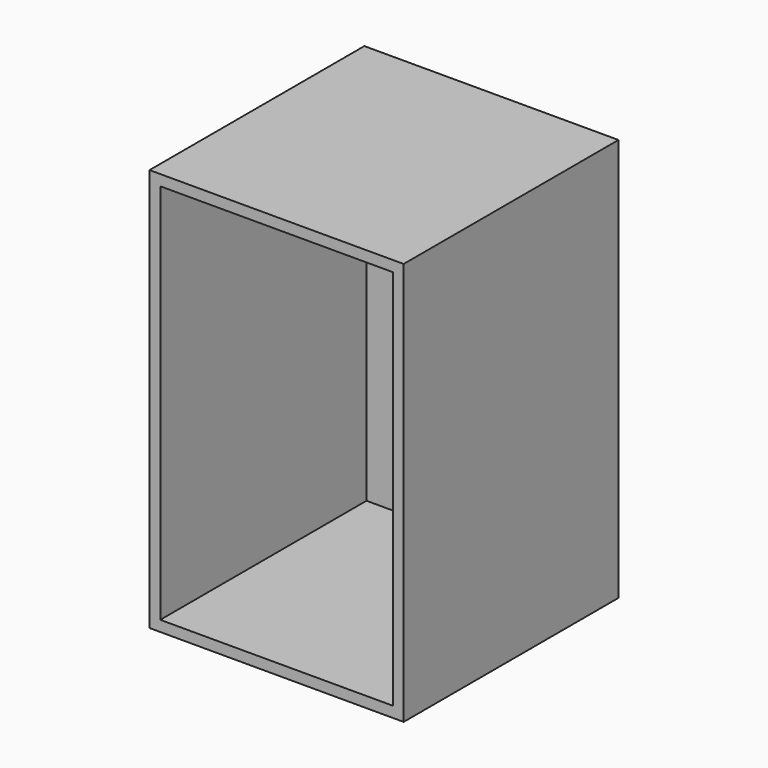
from build123d import *

# Parameters (mm, degrees)
F0_W     = 81.1607763171
F0_H     = 89.4276052713
F1_DEPTH = 381
F2_DEPTH = 482.6
F3_DEPTH = 279.4
F4_T     = -15.24


with BuildPart() as f1:
    # F0 (on Front) → F1 (new body)
    with BuildSketch(Plane.XZ):
        Rectangle(F0_W, F0_H)
    extrude(amount=F1_DEPTH)

    # F2 (add): a face of the model
    f2_faces = [f1.faces().sort_by_distance(p)[0] for p in [
        (0, -190.5, 44.7138026357),
    ]]
    extrude(f2_faces, amount=F2_DEPTH)

    # F3 (add): a face of the model
    f3_faces = [f1.faces().sort_by_distance(p)[0] for p in [
        (40.5803881586, -190.5, 241.3),
    ]]
    extrude(f3_faces, amount=F3_DEPTH)

    # F4
    f4_openings = [f1.faces().sort_by_distance(p)[0] for p in [
        (139.7, -381, 241.3),
    ]]
    offset(amount=F4_T, openings=f4_openings)


solid = f1.part
